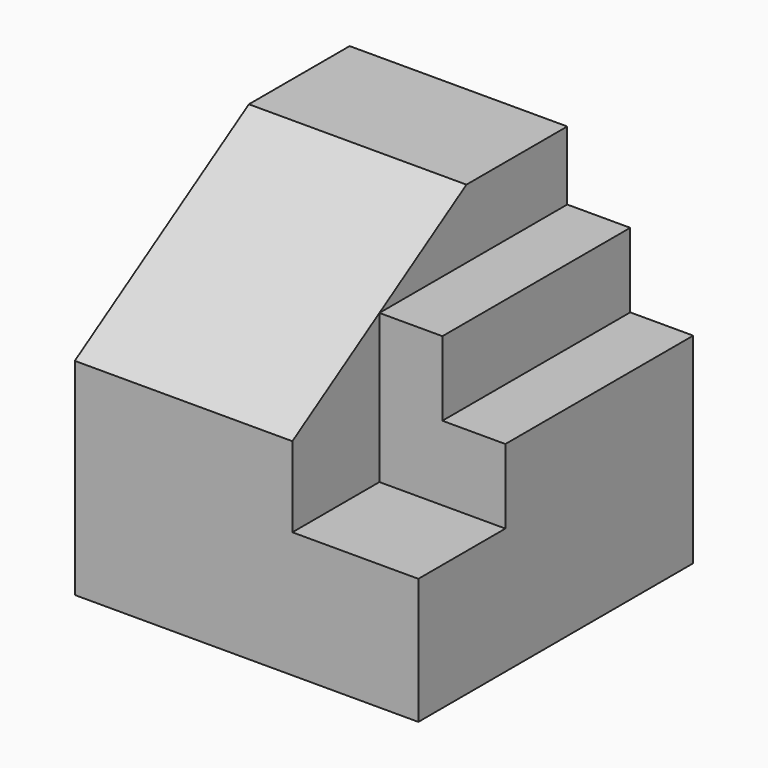
from build123d import *

# Parameters (mm, degrees)
F0_W     = 20.5
F0_H     = 6.5
F1_DEPTH = 30
F2_DEPTH = 11
F3_DEPTH = 5.5


with BuildPart() as f1:
    # F0 (on Right) → F1 (new body)
    with BuildSketch(Plane.YZ):
        Polygon((0, 11), (0, 0), (30, 0), (30, 17.5), (9.5, 17.5), (9.5, 11), align=None)
        with Locations((19.75, 20.75)):
            Rectangle(F0_W, F0_H)
        Polygon((9.5, 24), (30, 24), (30, 30), (19, 30), align=None)
        Polygon((0, 18), (0, 11), (9.5, 11), (9.5, 17.5), (9.5, 24), align=None)
    extrude(amount=-F1_DEPTH)

    # F0 (on Right) → F2 (cut)
    with BuildSketch(Plane.YZ):
        Polygon((9.5, 24), (30, 24), (30, 30), (19, 30), align=None)
        Polygon((0, 18), (0, 11), (9.5, 11), (9.5, 17.5), (9.5, 24), align=None)
    extrude(amount=-F2_DEPTH, mode=Mode.SUBTRACT)

    # F0 (on Right) → F3 (cut)
    with BuildSketch(Plane.YZ):
        with Locations((19.75, 20.75)):
            Rectangle(F0_W, F0_H)
    extrude(amount=-F3_DEPTH, mode=Mode.SUBTRACT)


solid = f1.part
